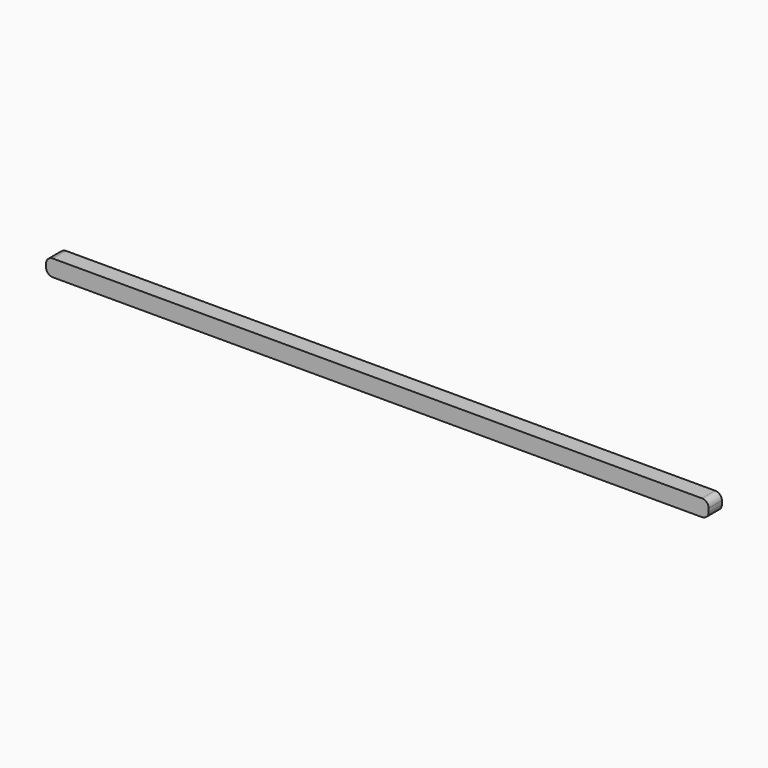
from build123d import *

# Parameters (mm, degrees)
F0_W     = 2000
F0_H     = 50
F1_DEPTH = 25
F2_R     = 20


with BuildPart() as f1:
    # F0 (on Front) → F1 (new body, symmetric)
    with BuildSketch(Plane.XZ):
        with Locations((824.850497, -7.860808)):
            Rectangle(F0_W, F0_H)
    extrude(amount=F1_DEPTH, both=True)

    # F2
    f2_edges = [f1.edges().sort_by_distance(p)[0] for p in [
        (1824.850497, 0, 17.139192),
        (1824.850497, 0, -32.860808),
        (-175.149503, 0, 17.139192),
        (-175.149503, 0, -32.860808),
    ]]
    fillet(f2_edges, radius=F2_R)


solid = f1.part
